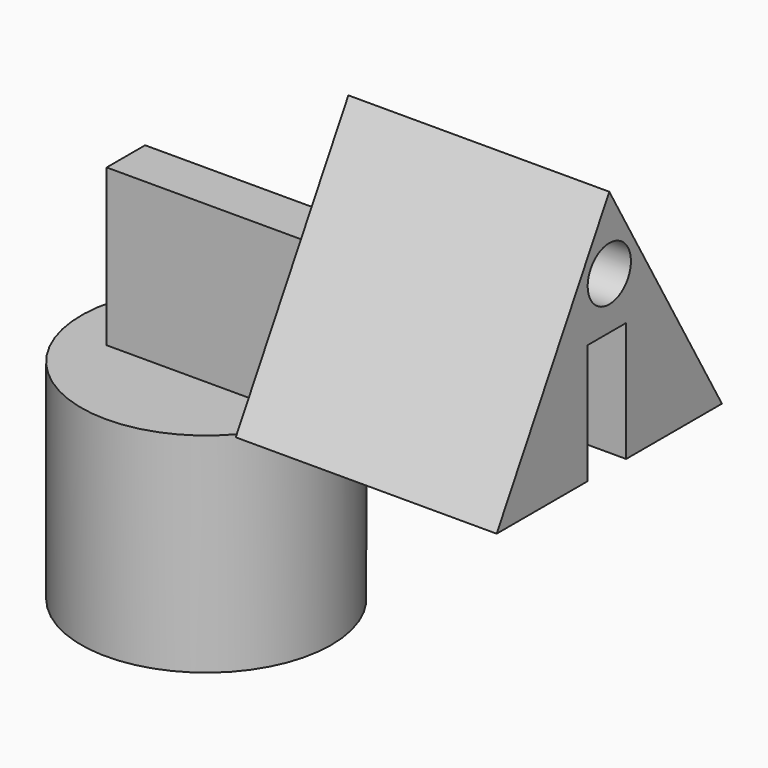
from build123d import *

# Parameters (mm, degrees)
F0_R     = 60.8847176051
F1_DEPTH = 101.6
F2_W     = 81.7296952009
F2_H     = 23.3908817172
F3_DEPTH = 76.2
F4_DEPTH = 25.4
F6_DEPTH = 101.6
F7_DEPTH = 25.4
F8_R     = 13.1445070729
F9_DEPTH = 50.8


with BuildPart() as f1:
    # F0 (on Top) → F1 (new body)
    with BuildSketch(Plane.XY):
        Circle(F0_R)
    extrude(amount=F1_DEPTH)

    # F2 (on face) → F3 (join)
    with BuildSketch(Plane.XY.offset(101.6)):
        with Locations((2.8951317072, -1.4490662143)):
            Rectangle(F2_W, F2_H)
    extrude(amount=F3_DEPTH)

    # F4 (add): a face of the model
    f4_faces = [f1.faces().sort_by_distance(p)[0] for p in [
        (43.7599793077, -1.4490662143, 139.7),
    ]]
    extrude(f4_faces, amount=F4_DEPTH)


with BuildPart() as f6:
    # F5 (on face) → F6 (new body)
    with BuildSketch(Plane.YZ.offset(69.1599793077)):
        Polygon((10.2463746443, 119.5061579347), (68.5206226804, 119.5061579347), (0, 238.1873577833), (-68.5206226804, 119.5061579347), (-13.1445070729, 119.5061579347), (-13.1445070729, 177.8), (10.2463746443, 177.8), align=None)
    extrude(amount=F6_DEPTH)

    # F7 (add): a face of the model
    f7_faces = [f6.faces().sort_by_distance(p)[0] for p in [
        (170.7599793077, 39.3834986624, 121.3190432076),
    ]]
    extrude(f7_faces, amount=F7_DEPTH)

    # F8 (on face) → F9 (cut)
    with BuildSketch(Plane.YZ.offset(196.1599793077)):
        with Locations((0, 203.0661553144)):
            Circle(F8_R)
    extrude(amount=-F9_DEPTH, mode=Mode.SUBTRACT)


solid = Compound([f1.part, f6.part])
